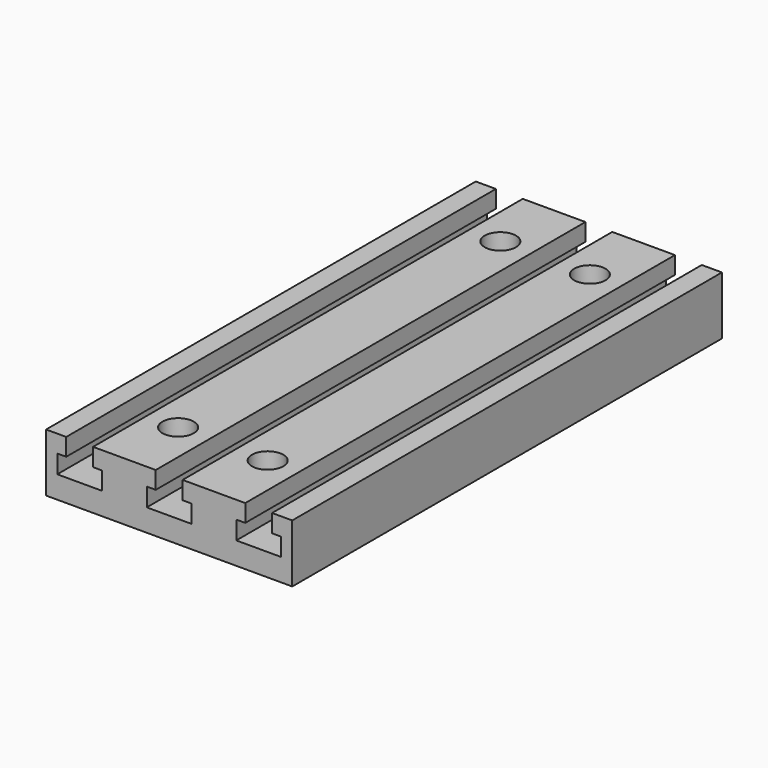
from build123d import *

# Parameters (mm, degrees)
F1_DEPTH       = 120
F3_D           = 8.5
F3_CBORE_D     = 14
F3_CBORE_DEPTH = 10


with BuildPart() as f1:
    # F0 (on Front) → F1 (new body, symmetric)
    with BuildSketch(Plane.XZ):
        Polygon((-55, 26), (-55, 0), (55, 0), (55, 26), (46, 26), (46, 18), (50, 18), (50, 10), (30, 10), (30, 18.192771), (34, 18.192771), (34, 26), (6, 26), (6, 18), (10, 18), (10, 10), (-10, 10), (-10, 18.192771), (-6, 18.192771), (-6, 26), (-34, 26), (-34, 18), (-30, 18), (-30, 10), (-50, 10), (-50, 18.192771), (-46, 18.192771), (-46, 26), align=None)
    extrude(amount=F1_DEPTH, both=True)

    # F3 (through all)
    with Locations(Plane.XY.offset(26)):
        with Locations((-20, -90), (20, -90), (-20, 90), (20, 90)):
            CounterBoreHole(F3_D / 2, F3_CBORE_D / 2, F3_CBORE_DEPTH)


with BuildPart() as f4_1:
    # F4: copy of F1
    add(f1.part)


solid = f1.part
